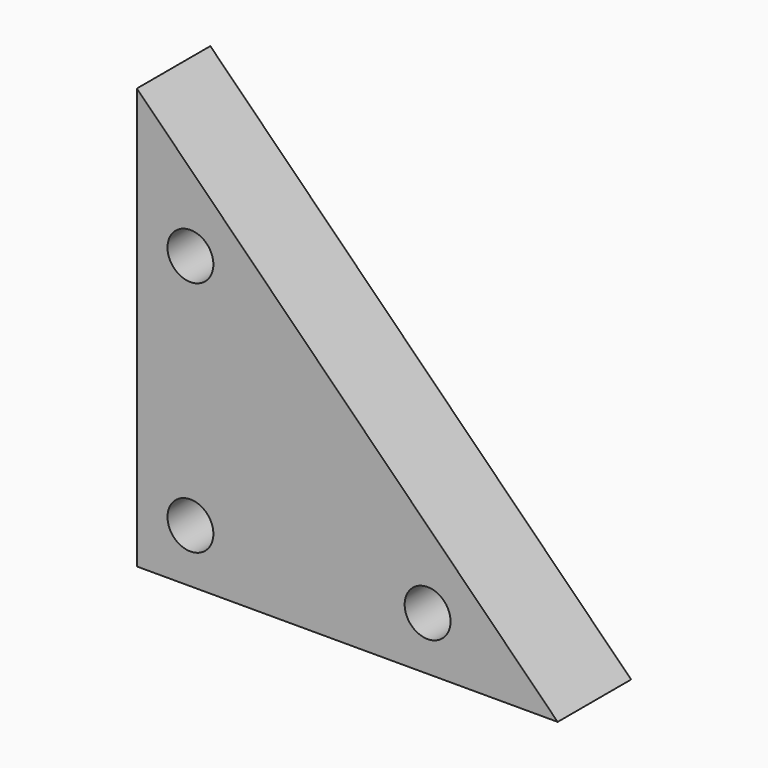
from build123d import *

# Parameters (mm, degrees)
F0_R     = 3
F1_DEPTH = 12


with BuildPart() as f1:
    # F0 (on Front) → F1 (new body)
    with BuildSketch(Plane.XZ):
        Polygon((0, 55), (0, 0), (55, 0), align=None)
        with Locations((7, 7)):
            Circle(F0_R, mode=Mode.SUBTRACT)
        with Locations((38, 7)):
            Circle(F0_R, mode=Mode.SUBTRACT)
        with Locations((7, 38)):
            Circle(F0_R, mode=Mode.SUBTRACT)
    extrude(amount=-F1_DEPTH)


solid = f1.part
